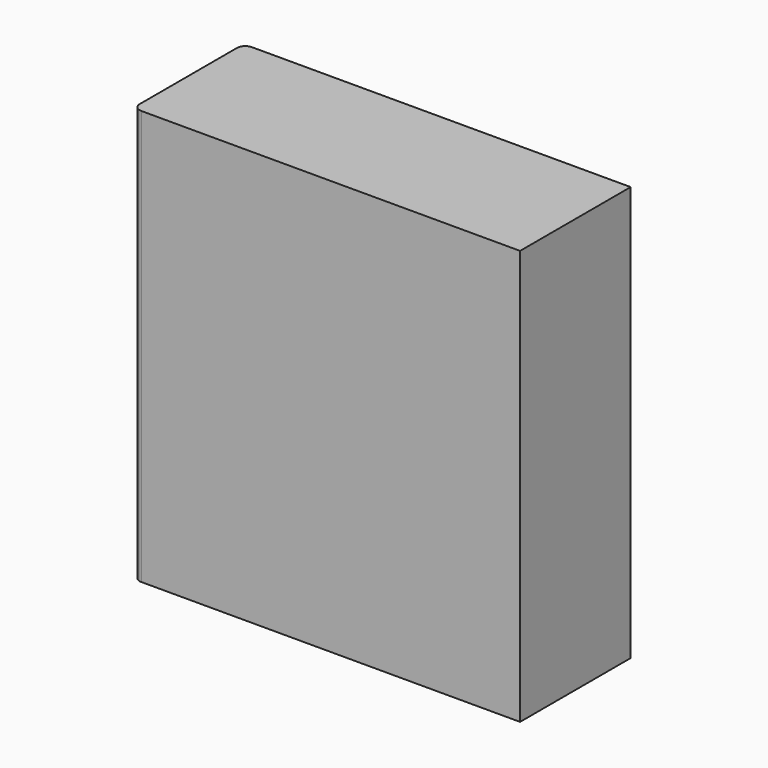
from build123d import *

# Parameters (mm, degrees)
F1_DEPTH = 15


with BuildPart() as f1:
    # F0 (on Top) → F1 (new body)
    with BuildSketch(Plane.XY):
        with BuildLine():
            Line((13.030516, -4.817673), (-0.669484, -4.817673))
            ThreePointArc((-0.669484, -4.817673), (-0.881616, -4.905541), (-0.969484, -5.117673))
            Line((-0.969484, -5.117673), (-0.969484, -9.517673))
            ThreePointArc((-0.969484, -9.517673), (-0.881616, -9.729805), (-0.669484, -9.817673))
            Line((-0.669484, -9.817673), (13.030516, -9.817673))
            Line((13.030516, -9.817673), (13.030516, -4.817673))
        make_face()
    extrude(amount=F1_DEPTH)


solid = f1.part
